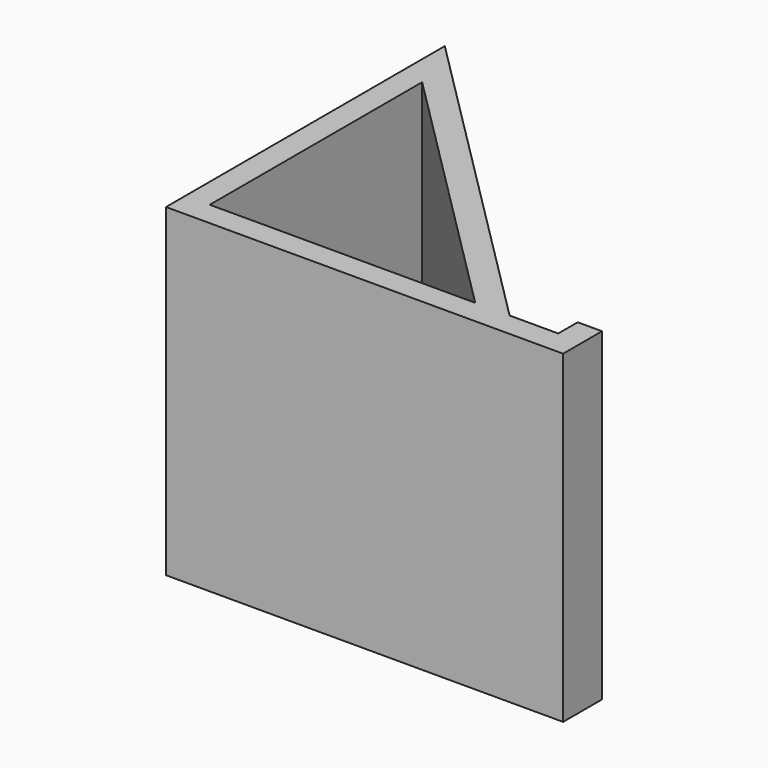
from build123d import *

# Parameters (mm, degrees)
F0_W     = 40
F0_H     = 3
F0_W_2   = 3
F1_DEPTH = 40
F4_DEPTH = 40.001


with BuildPart() as f1:
    # F0 (on Top) → F1 (new body)
    with BuildSketch(Plane.XY):
        with Locations((-20, 1.5)):
            Rectangle(F0_W, F0_H)
        Polygon((0, 3), (0, 0), (9, 0), (9, 3), (6, 3), align=None)
        Polygon((-40, 3), (0, 3), (-40, 43), align=None)
        with Locations((7.5, 4.5)):
            Rectangle(F0_W_2, F0_H)
    extrude(amount=F1_DEPTH)

    # F3 (on face) → F4 (cut, through all)
    with BuildSketch(Plane.XY.offset(40)):
        Polygon((-4.242641, 3), (-37, 35.757359), (-37, 3), align=None)
    extrude(amount=-F4_DEPTH, mode=Mode.SUBTRACT)


solid = f1.part
